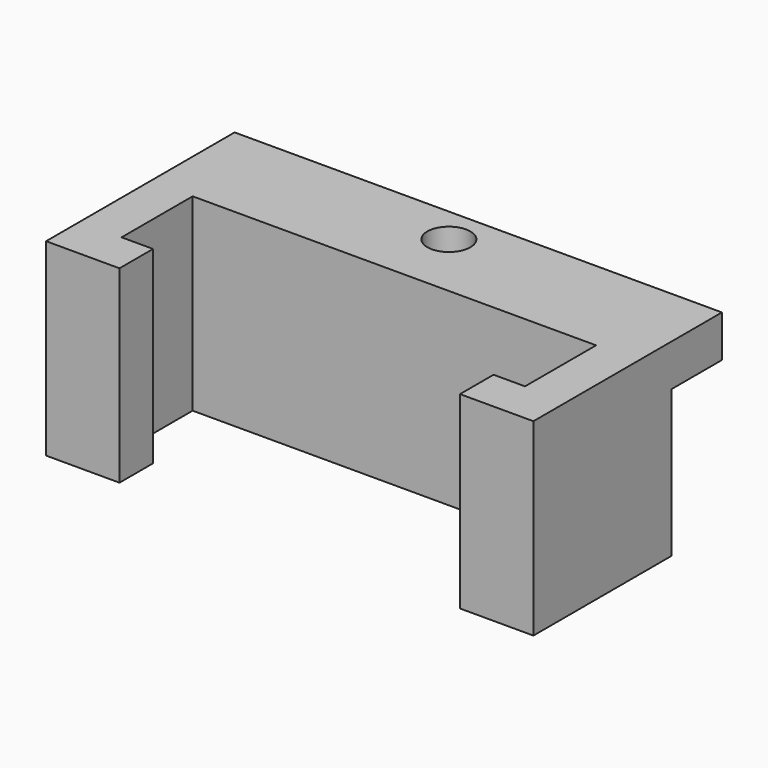
from build123d import *

# Parameters (mm, degrees)
F0_W     = 59.02
F0_H     = 20.92
F0_W_2   = 48.86
F0_H_2   = 10.76
F1_DEPTH = 22.86
F2_W     = 59.02
F2_H     = 7.62
F2_R     = 2.6035
F3_DEPTH = 5.08
F4_W     = 41.24
F4_H     = 5.08
F5_DEPTH = 22.861


with BuildPart() as f1:
    # F0 (on Top) → F1 (new body)
    with BuildSketch(Plane.XY):
        Rectangle(F0_W, F0_H)
        Rectangle(F0_W_2, F0_H_2, mode=Mode.SUBTRACT)
    extrude(amount=F1_DEPTH)

    # F2 (on face) → F3 (join)
    with BuildSketch(Plane.XY.offset(22.86)):
        with Locations((0, 14.27)):
            Rectangle(F2_W, F2_H)
        with Locations((0, 13.635)):
            Circle(F2_R, mode=Mode.SUBTRACT)
    extrude(amount=-F3_DEPTH)

    # F4 (on face) → F5 (cut, through all)
    with BuildSketch(Plane(origin=(0, 0, 0), x_dir=(1, 0, 0), z_dir=(0, 0, -1))):
        with Locations((0, 7.92)):
            Rectangle(F4_W, F4_H)
    extrude(amount=-F5_DEPTH, mode=Mode.SUBTRACT)


solid = f1.part
